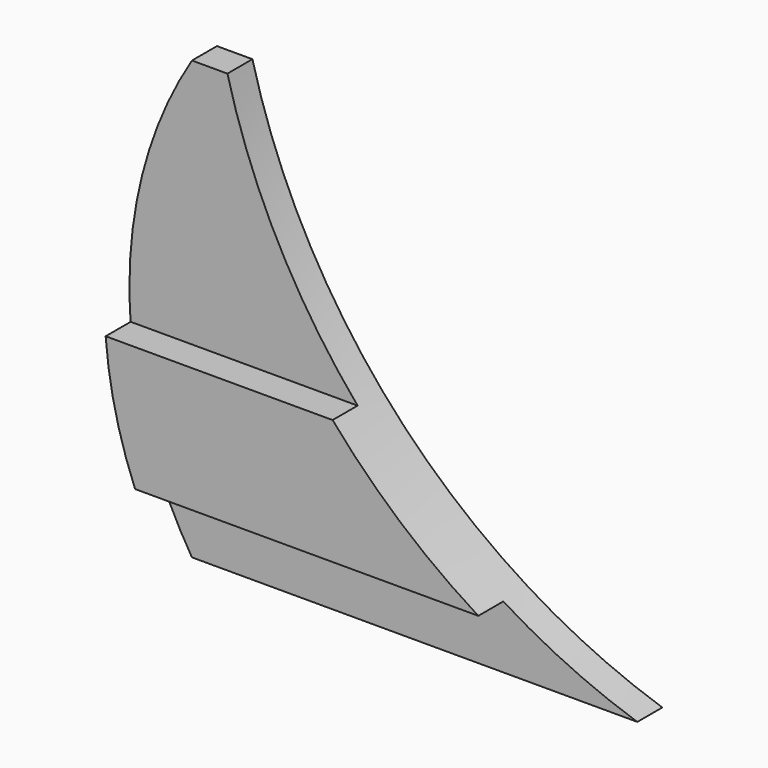
from build123d import *

# Parameters (mm, degrees)
F1_DEPTH = 6.35
F3_DEPTH = 6.35


with BuildPart() as f1:
    # F0 (on Front) → F1 (new body)
    with BuildSketch(Plane.XZ):
        with BuildLine():
            ThreePointArc((12.7, 0), (3.2372788554, -21.3356511015), (0, -44.45))
            ThreePointArc((0, -44.45), (0.0600126121, -47.6272662433), (0.2399648381, -50.8))
            Line((0.2399648381, -50.8), (46.3633556248, -50.8))
            ThreePointArc((46.3633556248, -50.8), (30.2344073473, -26.9108633319), (19.9077787579, 0))
            Line((19.9077787579, 0), (12.7, 0))
        make_face()
        with BuildLine():
            Line((46.3633556248, -50.8), (0.2399648381, -50.8))
            ThreePointArc((0.2399648381, -50.8), (2.2395472881, -63.7332634128), (6.220515932, -76.2))
            Line((6.220515932, -76.2), (75.9735986694, -76.2))
            ThreePointArc((75.9735986694, -76.2), (60.1873595892, -64.6437452498), (46.3633556248, -50.8))
        make_face()
        with BuildLine():
            ThreePointArc((6.220515932, -76.2), (9.1907657296, -82.6874937522), (12.7, -88.9))
            Line((12.7, -88.9), (13.0139251954, -88.9))
            Line((13.0139251954, -88.9), (103.2192627102, -88.9))
            ThreePointArc((103.2192627102, -88.9), (89.2193530675, -83.3589551349), (75.9735986694, -76.2))
            Line((75.9735986694, -76.2), (6.220515932, -76.2))
        make_face()
    extrude(amount=F1_DEPTH)

    # F2 (on face) → F3 (join)
    with BuildSketch(Plane.XZ.offset(6.35)):
        with BuildLine():
            ThreePointArc((0.2399648381, -50.8), (2.2395472881, -63.7332634128), (6.220515932, -76.2))
            Line((6.220515932, -76.2), (75.9735986694, -76.2))
            ThreePointArc((75.9735986694, -76.2), (60.1873595892, -64.6437452498), (46.3633556248, -50.8))
            Line((46.3633556248, -50.8), (0.2399648381, -50.8))
        make_face()
    extrude(amount=F3_DEPTH)


solid = f1.part
